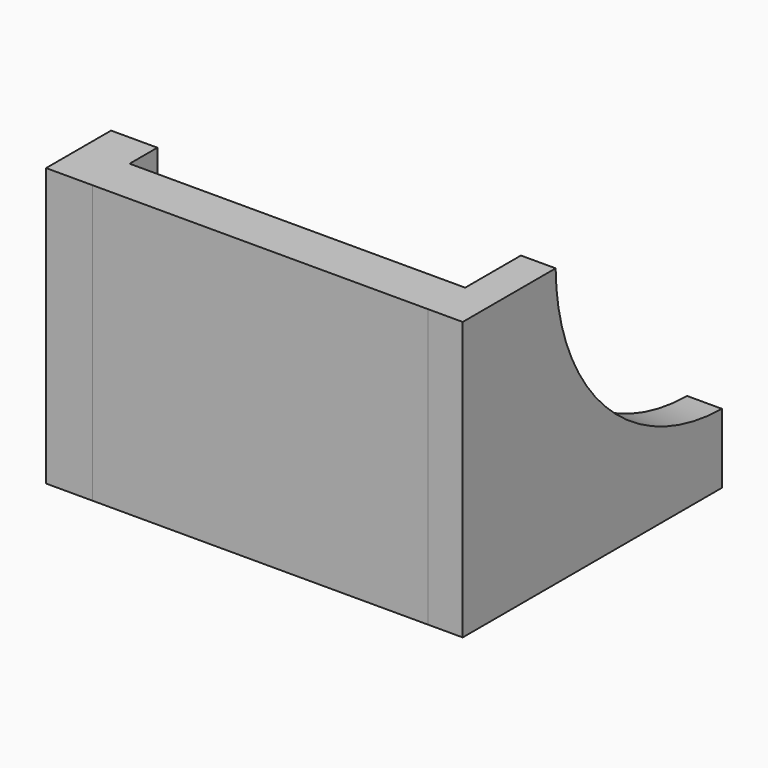
from build123d import *

# Parameters (mm, degrees)
F1_DEPTH  = 3
F1_FACE_W = 3
F1_FACE_H = 24
F2_DEPTH  = 4
F3_W      = 4.019441
F3_H      = 24
F4_DEPTH  = 29
F4_FACE_W = 4.01944
F4_FACE_H = 24
F5_DEPTH  = 4
F6_W      = 4
F6_H      = 24
F7_DEPTH  = 3


with BuildPart() as f1:
    # F0 (on Right) → F1 (new body)
    with BuildSketch(Plane.YZ):
        with BuildLine():
            Line((0.199964, 44.290306), (-23.800036, 44.290306))
            Line((-23.800036, 44.290306), (-23.800036, 20.290306))
            Line((-23.800036, 20.290306), (-19.761154, 20.290306))
            Line((-19.761154, 20.290306), (-17.761154, 20.290306))
            ThreePointArc((-17.761154, 20.290306), (-12.443684, 32.942078), (0.199964, 38.278837))
            Line((0.199964, 38.278837), (0.199964, 44.290306))
        make_face()
    extrude(amount=F1_DEPTH)

    # F1_face (on face) → F2 (join)
    with BuildSketch(Plane(origin=(1.5, -23.800036, 32.290306), x_dir=(1, 0, 0), z_dir=(0, -1, 0))):
        Rectangle(F1_FACE_W, F1_FACE_H)
    extrude(amount=F2_DEPTH)

    # F3 (on face) → F4 (join)
    with BuildSketch(Plane(origin=(0, 0, 0), x_dir=(0, -1, 0), z_dir=(-1, 0, 0))):
        with Locations((25.790315, 32.290306)):
            Rectangle(F3_W, F3_H)
    extrude(amount=F4_DEPTH)

    # F4_face (on face) → F5 (join)
    with BuildSketch(Plane(origin=(-29, -25.790315, 32.290306), x_dir=(0, -1, 0), z_dir=(-1, 0, 0))):
        Rectangle(F4_FACE_W, F4_FACE_H)
    extrude(amount=F5_DEPTH)

    # F6 (on face) → F7 (join)
    with BuildSketch(Plane(origin=(0, -23.780595, 0), x_dir=(-1, 0, 0), z_dir=(0, 1, 0))):
        with Locations((31, 32.290306)):
            Rectangle(F6_W, F6_H)
    extrude(amount=F7_DEPTH)


with BuildPart() as f8_1:
    # F8: instance of F1
    add(f1.part.mirror(Plane.XY))


solid = f8_1.part
